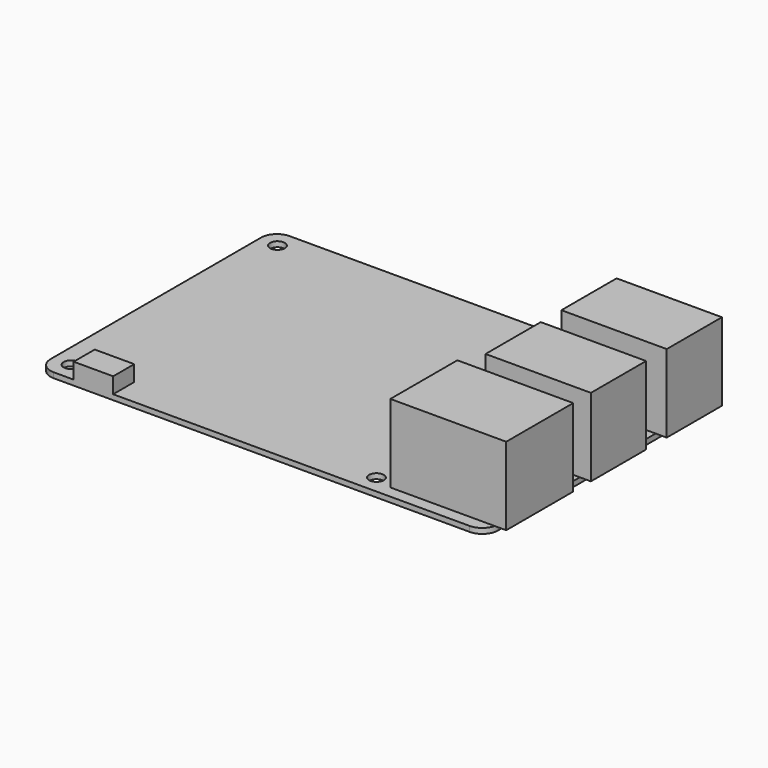
from build123d import *

# Parameters (mm, degrees)
F0_W     = 85
F0_H     = 56
F1_DEPTH = 1
F2_R     = 3
F3_W     = 22
F3_H     = 15.9
F3_W_2   = 20
F3_H_2   = 13.1
F4_DEPTH = 14.8
F6_D     = 2.8
F6_DEPTH = 5
F7_W     = 7.5
F7_H     = 5
F8_DEPTH = 3


with BuildPart() as f1:
    # F0 (on Top) → F1 (new body)
    with BuildSketch(Plane.XY):
        Rectangle(F0_W, F0_H)
    extrude(amount=F1_DEPTH)

    # F2
    f2_edges = [f1.edges().sort_by_distance(p)[0] for p in [
        (42.5, -28, 0.5),
        (42.5, 28, 0.5),
        (-42.5, 28, 0.5),
        (-42.5, -28, 0.5),
    ]]
    fillet(f2_edges, radius=F2_R)

    # F3 (on face) → F4 (join)
    with BuildSketch(Plane.XY.offset(1)):
        with Locations((33.6, -17.75)):
            Rectangle(F3_W, F3_H)
        with Locations((34.6, 0.95)):
            Rectangle(F3_W_2, F3_H_2)
        with Locations((34.6, 18.95)):
            Rectangle(F3_W_2, F3_H_2)
    extrude(amount=F4_DEPTH)

    # F6
    with Locations(Plane.XY.offset(1)):
        with Locations((-39, 24.5), (19, 24.5), (19, -24.5), (-39, -24.5)):
            Hole(F6_D / 2, depth=F6_DEPTH)

    # F7 (on face) → F8 (join)
    with BuildSketch(Plane.XY.offset(1)):
        with Locations((-31.95, -25.5)):
            Rectangle(F7_W, F7_H)
    extrude(amount=F8_DEPTH)


solid = f1.part
